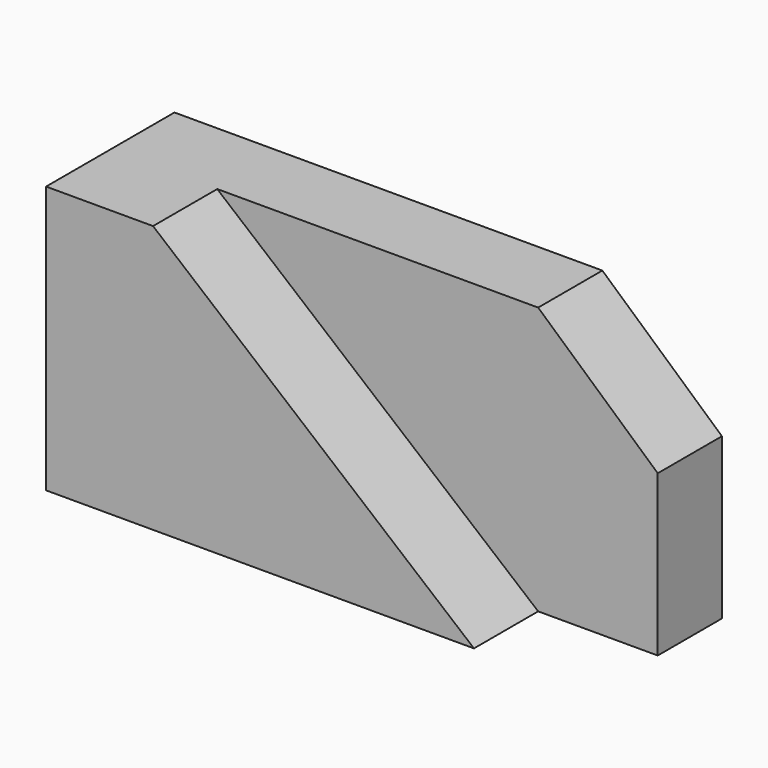
from build123d import *

# Parameters (mm, degrees)
F1_DEPTH = 38.1
F3_DEPTH = 19.05


with BuildPart() as f1:
    # F0 (on Front) → F1 (new body)
    with BuildSketch(Plane.XZ):
        Polygon((-32.421868, 29.878679), (-57.821868, 29.878679), (-57.821868, -33.621321), (43.778132, -33.621321), align=None)
    extrude(amount=F1_DEPTH)

    # F2 (on Front) → F3 (join)
    with BuildSketch(Plane.XZ):
        Polygon((-57.821868, 29.878679), (-57.821868, -33.621321), (72.168774, -33.621321), (72.168774, 4.478679), (43.778132, 29.878679), align=None)
    extrude(amount=F3_DEPTH)


solid = f1.part
